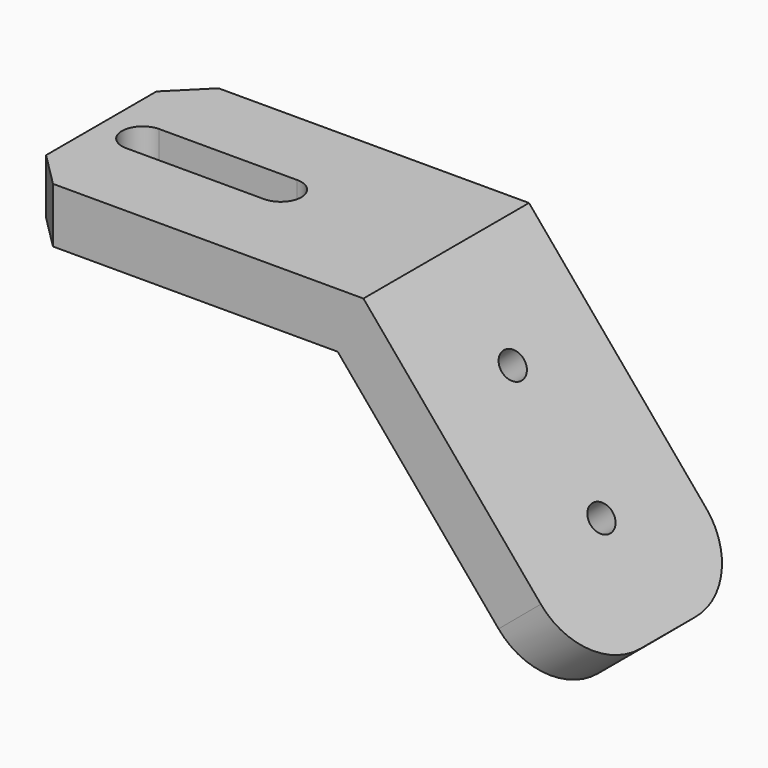
from build123d import *

# Parameters (mm, degrees)
F1_DEPTH = 15
F3_DEPTH = 43.4455230334
F5_D     = 4
F6_R     = 10
F7_SIZE  = 5


with BuildPart() as f1:
    # F0 (on Front) → F1 (new body, symmetric)
    with BuildSketch(Plane.XZ):
        Polygon((0, 8), (0, 0), (46.2695387348, 0), (76.0110249394, -35.4445230334), (82.1393804843, -30.3022221559), (50, 8), align=None)
    extrude(amount=F1_DEPTH, both=True)

    # F2 (on face) → F3 (cut, through all)
    with BuildSketch(Plane.XY.offset(8)):
        with BuildLine():
            ThreePointArc((6, 3), (3, 0), (6, -3))
            Line((6, -3), (26, -3))
            ThreePointArc((26, -3), (29, 0), (26, 3))
            Line((26, 3), (6, 3))
        make_face()
    extrude(amount=-F3_DEPTH, mode=Mode.SUBTRACT)

    # F5 (through all)
    with Locations(Plane(origin=(33.2804354537, 0, 27.9256011146), x_dir=(0, 1, 0), z_dir=(0.7660444431, 0, 0.6427876097))):
        with Locations((0, -41.0110249394), (0, -61.0110249394)):
            Hole(F5_D / 2)

    # F6
    f6_edges = [f1.edges().sort_by_distance(p)[0] for p in [
        (79.075203, -15, -32.873373),
        (79.075203, 15, -32.873373),
    ]]
    fillet(f6_edges, radius=F6_R)

    # F7
    f7_edges = [f1.edges().sort_by_distance(p)[0] for p in [
        (0, -15, 4),
        (0, 15, 4),
    ]]
    chamfer(f7_edges, length=F7_SIZE)


solid = f1.part
